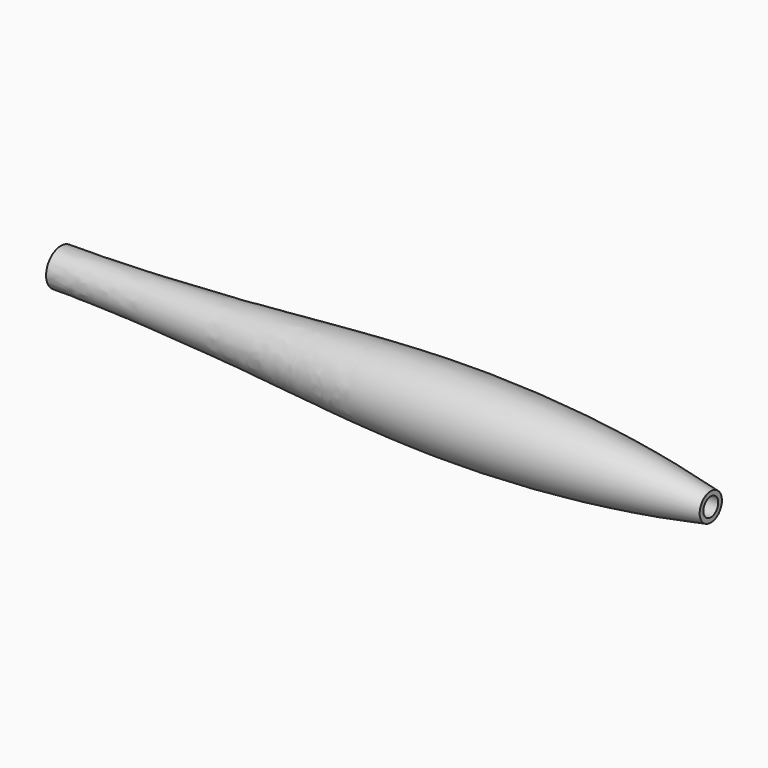
from build123d import *

# Parameters (mm, degrees)
F2_R     = 2
F3_DEPTH = 140.0010001


with BuildPart() as f1:
    # F0 (on Front) → F1 (revolve)
    with BuildSketch(Plane.XZ):
        with BuildLine():
            Line((0, 4), (0, 0))
            Line((0, 0), (140, 0))
            Line((140, 0), (140, 3))
            add(Edge.make_bspline(
                [(140, 3), (120.3974857894, 6.9035421815), (75.2855906676, 10.4139998986), (34.9829244907, 4.1955968449), (0, 4)],
                knots=[0, 0, 0, 0, 0.4668023533, 1, 1, 1, 1], degree=3))
        make_face()
    revolve(axis=Axis((70, 0, 0), (1, 0, 0)))

    # F2 (on face) → F3 (cut, through all)
    with BuildSketch(Plane.YZ.offset(140)):
        Circle(F2_R)
    extrude(amount=-F3_DEPTH, mode=Mode.SUBTRACT)


solid = f1.part
